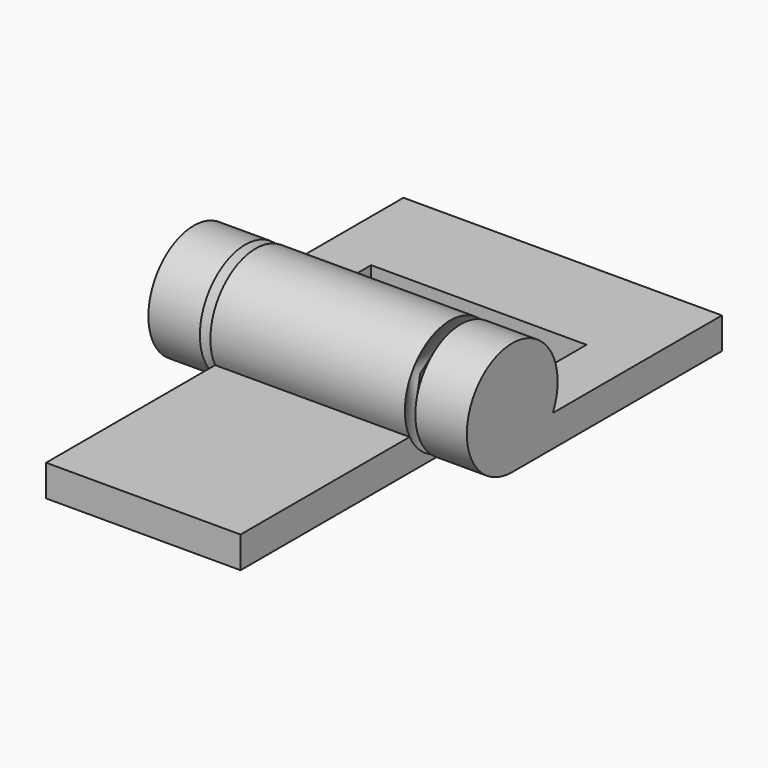
from build123d import *

# Parameters (mm, degrees)
F4_W     = 18.5505142563
F4_H     = 3
F6_W     = 4.9131528187
F6_H     = 3
F7_DEPTH = 25.0000000466
F9_DEPTH = 3


with BuildPart() as f1:
    # F0 (on Top) → F1 (revolve)
    with BuildSketch(Plane.XY):
        Polygon((-15.1884099469, 0), (-6.408184309, 0), (-10.2752571281, 5.4137380794), (-15.1884099469, 5.4137380794), align=None)
    revolve(axis=Axis((-2.7040921545, 0, 0), (-1, 0, 0)))

    # F6 (on offset) → F7, piece 2 (join, through all)
    with BuildSketch(Plane.XZ.offset(-25)):
        with Locations((-12.7318335375, -3.9137380794)):
            Rectangle(F6_W, F6_H)
    extrude(amount=F7_DEPTH)



with BuildPart() as f1b:
    # F0 (on Top) → F1, piece 2 (revolve)
    with BuildSketch(Plane.XY):
        Polygon((-5.408184309, 0), (0, 0), (0, 5.4137380794), (-9.2752571281, 5.4137380794), align=None)
        Polygon((0, 5.4137380794), (0, 0), (5.408184309, 0), (9.2752571281, 5.4137380794), align=None)
    revolve(axis=Axis((-2.7040921545, 0, 0), (-1, 0, 0)))

    # F4 (on offset) → F5 (join, up to the next surface of F1b)
    with BuildSketch(Plane.XZ.offset(25)):
        with Locations((0, -3.9137380794)):
            Rectangle(F4_W, F4_H)
    extrude(until=Until.NEXT, dir=(0, 1, 0))


with BuildPart() as f1c:
    # F0 (on Top) → F1, piece 3 (revolve)
    with BuildSketch(Plane.XY):
        Polygon((15.1884099469, 5.4137380794), (10.2752571281, 5.4137380794), (6.408184309, 0), (15.1884099469, 0), align=None)
    revolve(axis=Axis((-2.7040921545, 0, 0), (-1, 0, 0)))

    # F6 (on offset) → F7 (join, through all)
    with BuildSketch(Plane.XZ.offset(-25)):
        with Locations((12.7318335375, -3.9137380794)):
            Rectangle(F6_W, F6_H)
    extrude(amount=F7_DEPTH)


with BuildPart() as f1_1:
    add(f1.part)

    add(f1c.part)  # F9 merges F1c
    # F8 (on face) → F9 (join, through all)
    with BuildSketch(Plane.XY.offset(-2.4137380794)):
        Polygon((-15.1884099469, 25), (-15.1884099469, 15), (15.1884099469, 15), (15.1884099469, 25), (10.2752571281, 25), (-10.2752571281, 25), align=None)
    extrude(amount=-F9_DEPTH)


solid = Compound([f1b.part, f1_1.part])
